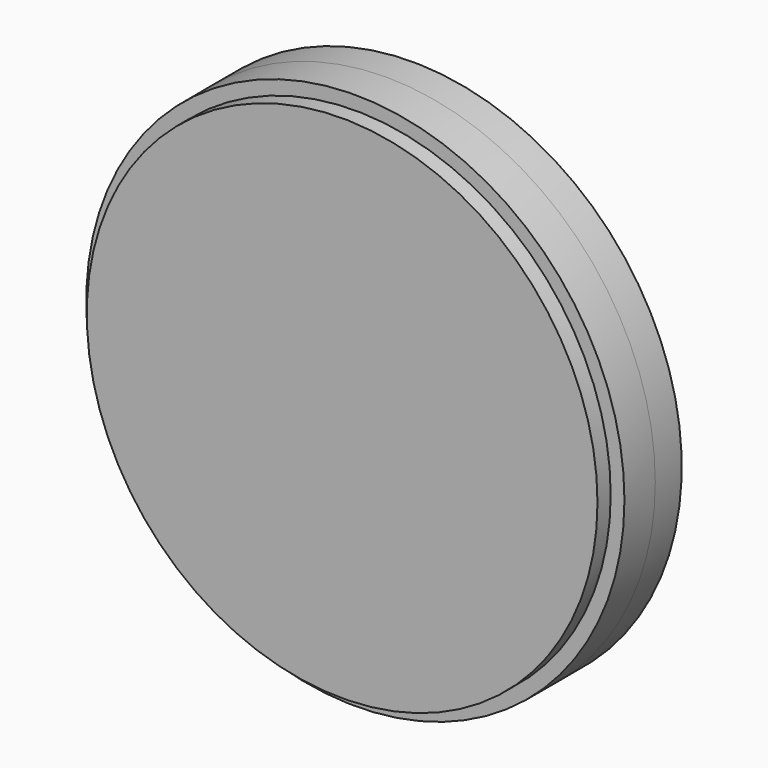
from build123d import *

# Parameters (mm, degrees)
F0_R     = 75.971248
F0_R_2   = 70.641117
F1_DEPTH = 10.893734
F2_R     = 72.093094
F3_DEPTH = 15.55609
F4_R     = 75.971248
F4_R_2   = 72.087222
F5_DEPTH = 9.329332


with BuildPart() as f1:
    # F0 (on Front) → F1 (new body)
    with BuildSketch(Plane.XZ):
        Circle(F0_R)
        Circle(F0_R_2, mode=Mode.SUBTRACT)
    extrude(amount=F1_DEPTH)

    # F2 (on Front) → F3 (join)
    with BuildSketch(Plane.XZ):
        Circle(F2_R)
    extrude(amount=F3_DEPTH)

    # F4 (on face) → F5 (join)
    with BuildSketch(Plane(origin=(0, 0, 0), x_dir=(-1, 0, 0), z_dir=(0, 1, 0))):
        Circle(F4_R)
        Circle(F4_R_2, mode=Mode.SUBTRACT)
    extrude(amount=F5_DEPTH)


solid = f1.part
